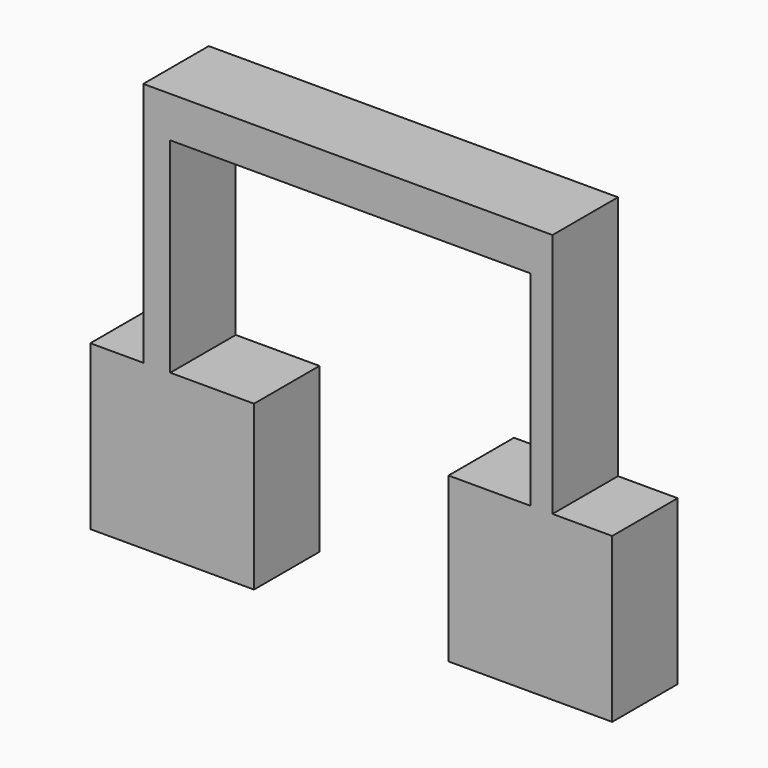
from build123d import *

# Parameters (mm, degrees)
F0_W     = 6.872936
F0_H     = 63.5
F1_DEPTH = 12.7


with BuildPart() as f1:
    # F0 (on Front) → F1 (new body, symmetric)
    with BuildSketch(Plane.XZ):
        Polygon((55.211678, -11.969762), (48.338742, -11.969762), (22.938742, -11.969762), (22.938742, -62.769762), (73.738742, -62.769762), (73.738742, -11.969762), align=None)
        Polygon((-88.223618, -11.969762), (-88.223618, -62.769762), (-37.423618, -62.769762), (-37.423618, -11.969762), (-63.421263, -11.969762), (-71.788319, -11.969762), align=None)
        Polygon((-71.788319, 64.230238), (-71.788319, -11.969762), (-63.421263, -11.969762), (-63.421263, 51.530238), (-63.421263, 64.230238), align=None)
        Polygon((-63.421263, 64.230238), (-63.421263, 51.530238), (48.338742, 51.530238), (55.211678, 51.530238), (55.211678, 64.230238), align=None)
        with Locations((51.77521, 19.780238)):
            Rectangle(F0_W, F0_H)
    extrude(amount=F1_DEPTH, both=True)


solid = f1.part
